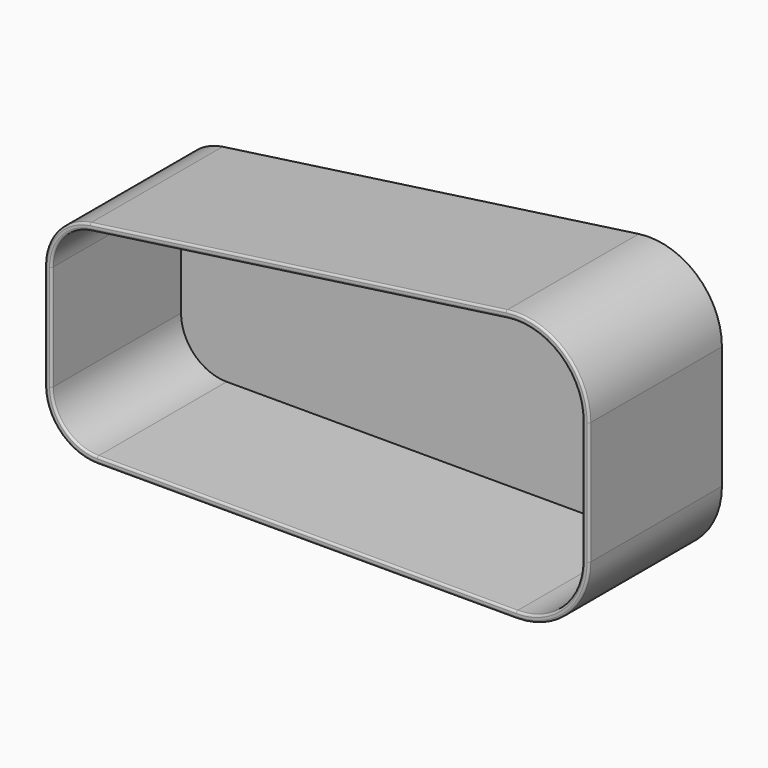
from build123d import *

# Parameters (mm, degrees)
F1_DEPTH = 1
F2_DEPTH = 40
F3_R     = 0.5


with BuildPart() as f1:
    # F0 (on Front) → F1 (new body)
    with BuildSketch(Plane.XZ):
        with BuildLine():
            ThreePointArc((-16, 0), (-4.686292, 4.686292), (0, 16))
            Line((0, 16), (0, 45.592571))
            ThreePointArc((0, 45.592571), (-5.503554, 57.668358), (-18.228077, 61.436677))
            Line((-18.228077, 61.436677), (-118.531803, 47.331465))
            ThreePointArc((-118.531803, 47.331465), (-125.302103, 43.65495), (-128, 36.438643))
            Line((-128, 36.438643), (-128, 11))
            ThreePointArc((-128, 11), (-124.778175, 3.221825), (-117, 0))
            Line((-117, 0), (-16, 0))
        make_face()
    extrude(amount=F1_DEPTH)

    # F0 (on Front) → F2 (join)
    with BuildSketch(Plane.XZ):
        with BuildLine():
            ThreePointArc((-129.6, 11), (-125.909545, 2.090455), (-117, -1.6))
            Line((-117, -1.6), (-16, -1.6))
            ThreePointArc((-16, -1.6), (-3.554921, 3.554921), (1.6, 16))
            Line((1.6, 16), (1.6, 45.592571))
            ThreePointArc((1.6, 45.592571), (-4.453909, 58.875936), (-18.450885, 63.021087))
            Line((-18.450885, 63.021087), (-118.754611, 48.915876))
            ThreePointArc((-118.754611, 48.915876), (-126.509682, 44.704594), (-129.6, 36.438643))
            Line((-129.6, 36.438643), (-129.6, 11))
        make_face()
        with BuildLine():
            Line((0, 45.592571), (0, 16))
            ThreePointArc((0, 16), (-4.686292, 4.686292), (-16, 0))
            Line((-16, 0), (-117, 0))
            ThreePointArc((-117, 0), (-124.778175, 3.221825), (-128, 11))
            Line((-128, 11), (-128, 36.438643))
            ThreePointArc((-128, 36.438643), (-125.302103, 43.65495), (-118.531803, 47.331465))
            Line((-118.531803, 47.331465), (-18.228077, 61.436677))
            ThreePointArc((-18.228077, 61.436677), (-5.503554, 57.668358), (0, 45.592571))
        make_face(mode=Mode.SUBTRACT)
    extrude(amount=F2_DEPTH)

    # F3
    f3_edges = [f1.edges().sort_by_distance(p)[0] for p in [
        (-66.5, -40, -1.6),
        (-66.5, -40, 0),
    ]]
    fillet(f3_edges, radius=F3_R)


solid = f1.part
